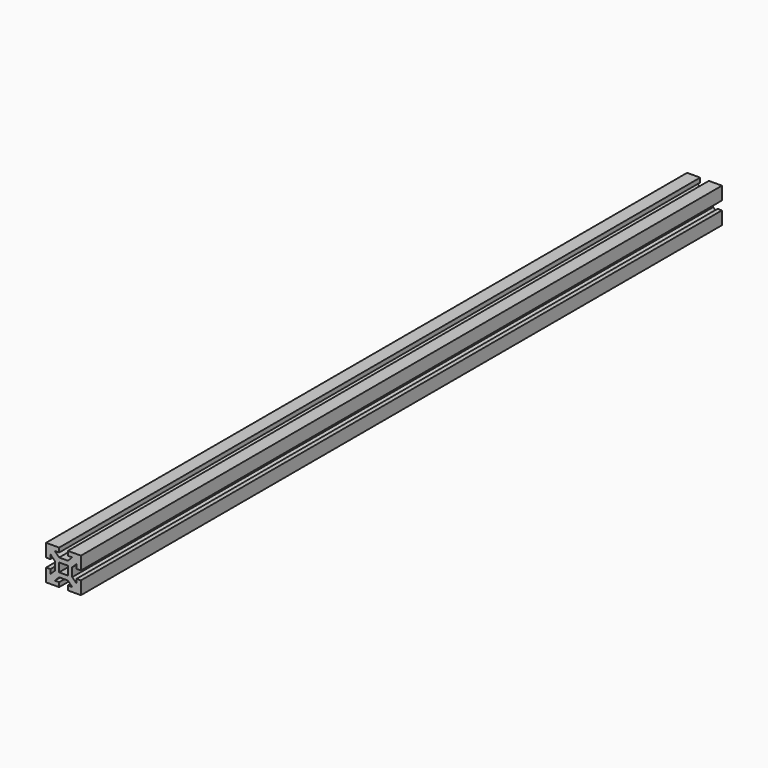
from build123d import *

# Parameters (mm, degrees)
F1_DEPTH = 920


with BuildPart() as f1:
    # F0 (on Front) → F1 (new body)
    with BuildSketch(Plane.XZ):
        Polygon((20, 5), (20, 20), (5, 20), (5, 15), (10, 15), (5, 10), (-5, 10), (-10, 15), (-5, 15), (-5, 20), (-20, 20), (-20, 5), (-15, 5), (-15, 10), (-10, 5), (-10, -5), (-15, -10), (-15, -5), (-20, -5), (-20, -20), (-5, -20), (-5, -15), (-10, -15), (-5, -10), (5, -10), (10, -15), (5, -15), (5, -20), (20, -20), (20, -5), (15, -5), (15, -10), (10, -5), (10, 5), (15, 10), (15, 5), align=None)
        Polygon((-5, 0), (-5, 5), (0, 5), (5, 5), (5, 0), (5, -5), (0, -5), (-5, -5), align=None, mode=Mode.SUBTRACT)
    extrude(amount=F1_DEPTH)


solid = f1.part
